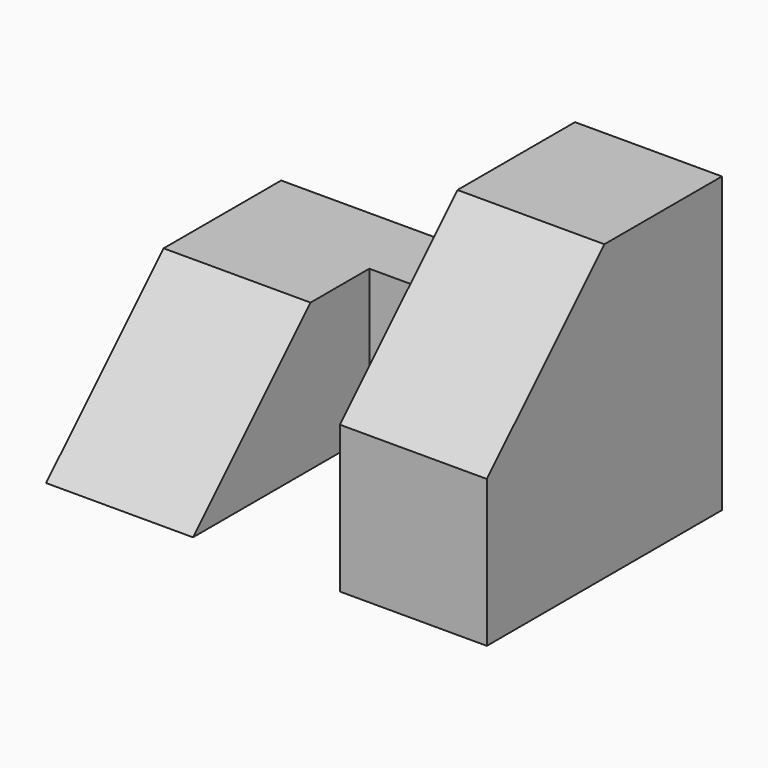
from build123d import *

# Parameters (mm, degrees)
F0_W     = 25.4
F0_H     = 25.4
F1_DEPTH = 19.05
F2_W     = 12.7
F2_H     = 19.05
F3_DEPTH = 25.401
F5_DEPTH = 12.7
F7_DEPTH = 19.051
F9_DEPTH = 19.051


with BuildPart() as f1:
    # F0 (on Right) → F1 (new body, symmetric)
    with BuildSketch(Plane.YZ):
        with Locations((-12.7, -12.7)):
            Rectangle(F0_W, F0_H)
    extrude(amount=F1_DEPTH, both=True)

    # F2 (on Top) → F3 (cut, through all)
    with BuildSketch(Plane.XY):
        with Locations((0, -15.875)):
            Rectangle(F2_W, F2_H)
    extrude(amount=-F3_DEPTH, mode=Mode.SUBTRACT)

    # F4 (on Top) → F5 (cut)
    with BuildSketch(Plane.XY):
        Polygon((-6.35, -6.35), (6.35, -6.35), (6.35, 0), (-19.05, 0), (-19.05, -25.4), (-6.35, -25.4), align=None)
    extrude(amount=-F5_DEPTH, mode=Mode.SUBTRACT)

    # F6 (on Right) → F7 (cut, through all)
    with BuildSketch(Plane.YZ):
        Polygon((-25.4, -25.4), (-12.7, -12.7), (-25.4, -12.7), align=None)
    extrude(amount=-F7_DEPTH, mode=Mode.SUBTRACT)

    # F8 (on Right) → F9 (cut, through all)
    with BuildSketch(Plane.YZ):
        Polygon((-25.4, 0), (-25.4, -12.7), (-12.7, 0), align=None)
    extrude(amount=F9_DEPTH, mode=Mode.SUBTRACT)


solid = f1.part
